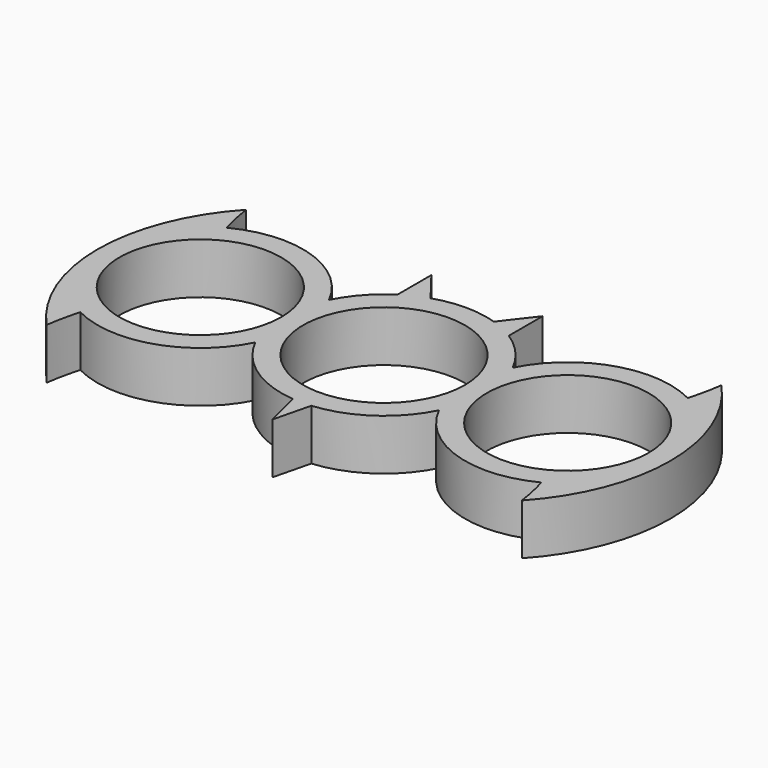
from build123d import *

# Parameters (mm, degrees)
F0_R     = 11.125
F1_DEPTH = 7


with BuildPart() as f1:
    # F0 (on Top) → F1 (new body)
    with BuildSketch(Plane.XY):
        with BuildLine():
            ThreePointArc((-31.69582, 12.568493), (-32.255769, 14.838654), (-32.665813, 17.140618))
            ThreePointArc((-32.665813, 17.140618), (-39.375, 0), (-32.665813, -17.140618))
            ThreePointArc((-32.665813, -17.140618), (-32.255769, -14.838654), (-31.69582, -12.568493))
            ThreePointArc((-31.69582, -12.568493), (-20.861213, -13.425877), (-12.625, -6.33443))
            ThreePointArc((-12.625, -6.33443), (-7.947567, -11.676977), (-1.261641, -14.068542))
            Line((-1.261641, -14.068542), (0, -19.190721))
            Line((0, -19.190721), (1.261641, -14.068542))
            ThreePointArc((1.261641, -14.068542), (7.947567, -11.676977), (12.625, -6.33443))
            ThreePointArc((12.625, -6.33443), (20.861213, -13.425877), (31.69582, -12.568493))
            ThreePointArc((31.69582, -12.568493), (32.255769, -14.838654), (32.665813, -17.140618))
            ThreePointArc((32.665813, -17.140618), (39.375, 0), (32.665813, 17.140618))
            ThreePointArc((32.665813, 17.140618), (32.255769, 14.838654), (31.69582, 12.568493))
            ThreePointArc((31.69582, 12.568493), (20.861213, 13.425877), (12.625, 6.33443))
            ThreePointArc((12.625, 6.33443), (10.509611, 9.437356), (7.651337, 11.873191))
            Line((7.651337, 11.873191), (7.651337, 17.700598))
            Line((7.651337, 17.700598), (4.351475, 13.438017))
            ThreePointArc((4.351475, 13.438017), (0, 14.125), (-4.351475, 13.438017))
            Line((-4.351475, 13.438017), (-7.651337, 17.700598))
            Line((-7.651337, 17.700598), (-7.651337, 11.873191))
            ThreePointArc((-7.651337, 11.873191), (-10.509611, 9.437356), (-12.625, 6.33443))
            ThreePointArc((-12.625, 6.33443), (-20.861213, 13.425877), (-31.69582, 12.568493))
        make_face()
        with Locations((-25.25, 0)):
            Circle(F0_R, mode=Mode.SUBTRACT)
        Circle(F0_R, mode=Mode.SUBTRACT)
        with Locations((25.25, 0)):
            Circle(F0_R, mode=Mode.SUBTRACT)
    extrude(amount=F1_DEPTH)


solid = f1.part
